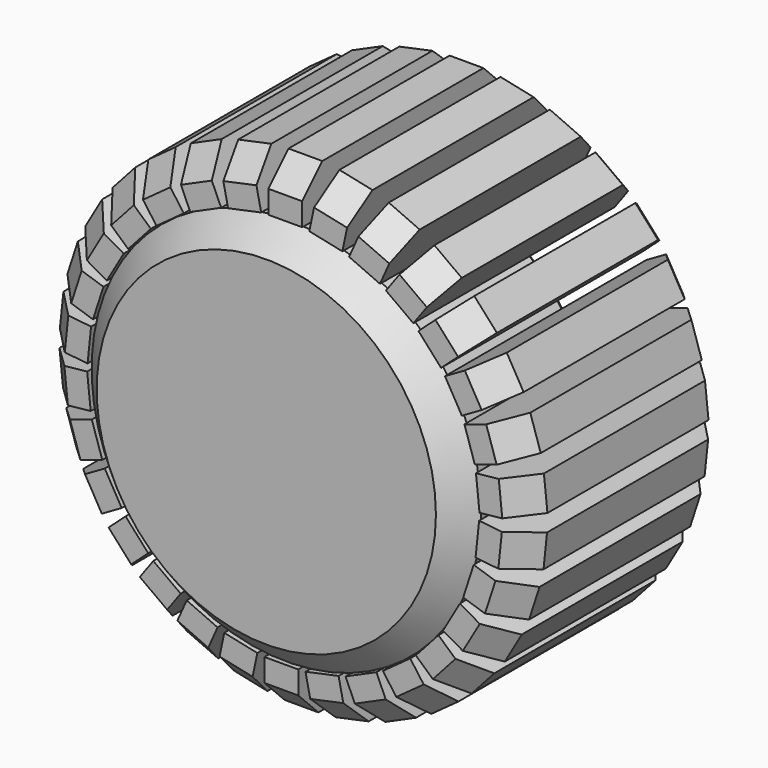
from build123d import *

# Parameters (mm, degrees)
F0_R        = 39.3229156589
F1_DEPTH    = 38.9816109091
F9_SIZE     = 5.08
F10_R       = 10.1055622672
F2_DEPTH    = 40.3628982604
F3_DEPTH    = 9.281327948
F4_SIZE     = 5.08
F6_W        = 6.826066412
F6_H        = 9.7030997276
F11_DEPTH   = 50.8
F7_COUNT    = 30
F12_SIZE    = 5.08
F12_2_SIZE  = 5.08
F12_3_SIZE  = 5.08
F12_4_SIZE  = 5.08
F12_5_SIZE  = 5.08
F12_6_SIZE  = 5.08
F12_7_SIZE  = 5.08
F12_8_SIZE  = 5.08
F12_9_SIZE  = 5.08
F12_10_SIZE = 5.08
F12_11_SIZE = 5.08
F12_12_SIZE = 5.08
F12_13_SIZE = 5.08
F12_14_SIZE = 5.08
F12_15_SIZE = 5.08
F12_16_SIZE = 5.08
F12_17_SIZE = 5.08
F12_18_SIZE = 5.08
F12_19_SIZE = 5.08
F12_20_SIZE = 5.08
F12_21_SIZE = 5.08
F12_22_SIZE = 5.08
F12_23_SIZE = 5.08
F12_24_SIZE = 5.08
F12_25_SIZE = 5.08
F12_26_SIZE = 5.08
F12_27_SIZE = 5.08
F12_28_SIZE = 5.08
F12_29_SIZE = 5.08
F12_30_SIZE = 5.08
F8_SIZE     = 5.08
F8_2_SIZE   = 5.08
F8_3_SIZE   = 5.08
F8_4_SIZE   = 5.08
F8_5_SIZE   = 5.08
F8_6_SIZE   = 5.08
F8_7_SIZE   = 5.08
F8_8_SIZE   = 5.08
F8_9_SIZE   = 5.08
F8_10_SIZE  = 5.08
F8_11_SIZE  = 5.08
F8_12_SIZE  = 5.08
F8_13_SIZE  = 5.08
F8_14_SIZE  = 5.08
F8_15_SIZE  = 5.08
F8_16_SIZE  = 5.08
F8_17_SIZE  = 5.08
F8_18_SIZE  = 5.08
F8_19_SIZE  = 5.08
F8_20_SIZE  = 5.08
F8_21_SIZE  = 5.08
F8_22_SIZE  = 5.08
F8_23_SIZE  = 5.08
F8_24_SIZE  = 5.08
F8_25_SIZE  = 5.08
F8_26_SIZE  = 5.08
F8_27_SIZE  = 5.08
F8_28_SIZE  = 5.08
F8_29_SIZE  = 5.08
F8_30_SIZE  = 5.08


with BuildPart() as f1:
    # F0 (on Front) → F1 (new body)
    with BuildSketch(Plane.XZ):
        Circle(F0_R)
    extrude(amount=F1_DEPTH)

    # F9
    f9_edges = [f1.edges().sort_by_distance(p)[0] for p in [
        (39.322916, -19.490805, 0),
        (-39.322916, 0, 0),
        (-39.322916, -38.981611, 0),
    ]]
    chamfer(f9_edges, length=F9_SIZE)

    # F10 (on face) → F2 (join)
    with BuildSketch(Plane.XZ.offset(38.9816109091)):
        with Locations((-0.4326030612, -0.1139193773)):
            Circle(F10_R)
    extrude(amount=-F2_DEPTH)

    # F3 (cut): a face of the model
    f3_faces = [f1.faces().sort_by_distance(p)[0] for p in [
        (-33.2743797441, 0, 0),
    ]]
    extrude(f3_faces, amount=-F3_DEPTH, mode=Mode.SUBTRACT)

    # F4
    f4_edges = [f1.edges().sort_by_distance(p)[0] for p in [
        (-10.538165, 1.381287, -0.113919),
    ]]
    chamfer(f4_edges, length=F4_SIZE)


with BuildPart() as f11:
    # F6 (on offset) → F11 (new body)
    with BuildSketch(Plane(origin=(0, 16.118672052, 0), x_dir=(-1, 0, 0), z_dir=(0, 1, 0))):
        with Locations((-0.3930665553, 44.2664772272)):
            Rectangle(F6_W, F6_H)
    extrude(amount=-F11_DEPTH)


with BuildPart() as f7_1:
    # F7: instance of F11
    add(f11.part.rotate(Axis((0, 0, 0), (0, 1, 0)), 1 * 360 / F7_COUNT))

    # F12#3
    f12_3_edges = [f7_1.edges().sort_by_distance(p)[0] for p in [
        (10.596689, -34.681328, 47.962957),
    ]]
    chamfer(f12_3_edges, length=F12_3_SIZE)

    # F8#5
    f8_5_edges = [f7_1.edges().sort_by_distance(p)[0] for p in [
        (10.596689, 16.118672, 47.962957),
    ]]
    chamfer(f8_5_edges, length=F8_5_SIZE)


with BuildPart() as f7_2:
    # F7: instance of F11
    add(f11.part.rotate(Axis((0, 0, 0), (0, 1, 0)), 2 * 360 / F7_COUNT))

    # F12#4
    f12_4_edges = [f7_2.edges().sort_by_distance(p)[0] for p in [
        (20.337186, -34.681328, 44.711676),
    ]]
    chamfer(f12_4_edges, length=F12_4_SIZE)

    # F8#6
    f8_6_edges = [f7_2.edges().sort_by_distance(p)[0] for p in [
        (20.337186, 16.118672, 44.711676),
    ]]
    chamfer(f8_6_edges, length=F8_6_SIZE)


with BuildPart() as f7_3:
    # F7: instance of F11
    add(f11.part.rotate(Axis((0, 0, 0), (0, 1, 0)), 3 * 360 / F7_COUNT))

    # F12#5
    f12_5_edges = [f7_3.edges().sort_by_distance(p)[0] for p in [
        (29.188849, -34.681328, 39.50628),
    ]]
    chamfer(f12_5_edges, length=F12_5_SIZE)

    # F8#7
    f8_7_edges = [f7_3.edges().sort_by_distance(p)[0] for p in [
        (29.188849, 16.118672, 39.50628),
    ]]
    chamfer(f8_7_edges, length=F8_7_SIZE)


with BuildPart() as f7_4:
    # F7: instance of F11
    add(f11.part.rotate(Axis((0, 0, 0), (0, 1, 0)), 4 * 360 / F7_COUNT))

    # F12#6
    f12_6_edges = [f7_4.edges().sort_by_distance(p)[0] for p in [
        (36.764821, -34.681328, 32.57427),
    ]]
    chamfer(f12_6_edges, length=F12_6_SIZE)

    # F8#8
    f8_8_edges = [f7_4.edges().sort_by_distance(p)[0] for p in [
        (36.764821, 16.118672, 32.57427),
    ]]
    chamfer(f8_8_edges, length=F8_8_SIZE)


with BuildPart() as f7_5:
    # F7: instance of F11
    add(f11.part.rotate(Axis((0, 0, 0), (0, 1, 0)), 5 * 360 / F7_COUNT))

    # F12#7
    f12_7_edges = [f7_5.edges().sort_by_distance(p)[0] for p in [
        (42.733993, -34.681328, 24.218608),
    ]]
    chamfer(f12_7_edges, length=F12_7_SIZE)

    # F8#9
    f8_9_edges = [f7_5.edges().sort_by_distance(p)[0] for p in [
        (42.733993, 16.118672, 24.218608),
    ]]
    chamfer(f8_9_edges, length=F8_9_SIZE)


with BuildPart() as f7_6:
    # F7: instance of F11
    add(f11.part.rotate(Axis((0, 0, 0), (0, 1, 0)), 6 * 360 / F7_COUNT))

    # F12#8
    f12_8_edges = [f7_6.edges().sort_by_distance(p)[0] for p in [
        (46.835484, -34.681328, 14.804477),
    ]]
    chamfer(f12_8_edges, length=F12_8_SIZE)

    # F8#10
    f8_10_edges = [f7_6.edges().sort_by_distance(p)[0] for p in [
        (46.835484, 16.118672, 14.804477),
    ]]
    chamfer(f8_10_edges, length=F8_10_SIZE)


with BuildPart() as f7_7:
    # F7: instance of F11
    add(f11.part.rotate(Axis((0, 0, 0), (0, 1, 0)), 7 * 360 / F7_COUNT))

    # F12#9
    f12_9_edges = [f7_7.edges().sort_by_distance(p)[0] for p in [
        (48.89004, -34.681328, 4.743319),
    ]]
    chamfer(f12_9_edges, length=F12_9_SIZE)

    # F8#11
    f8_11_edges = [f7_7.edges().sort_by_distance(p)[0] for p in [
        (48.89004, 16.118672, 4.743319),
    ]]
    chamfer(f8_11_edges, length=F8_11_SIZE)


with BuildPart() as f7_8:
    # F7: instance of F11
    add(f11.part.rotate(Axis((0, 0, 0), (0, 1, 0)), 8 * 360 / F7_COUNT))

    # F12#10
    f12_10_edges = [f7_8.edges().sort_by_distance(p)[0] for p in [
        (48.807867, -34.681328, -5.525145),
    ]]
    chamfer(f12_10_edges, length=F12_10_SIZE)

    # F8#12
    f8_12_edges = [f7_8.edges().sort_by_distance(p)[0] for p in [
        (48.807867, 16.118672, -5.525145),
    ]]
    chamfer(f8_12_edges, length=F8_12_SIZE)


with BuildPart() as f7_9:
    # F7: instance of F11
    add(f11.part.rotate(Axis((0, 0, 0), (0, 1, 0)), 9 * 360 / F7_COUNT))

    # F12#11
    f12_11_edges = [f7_9.edges().sort_by_distance(p)[0] for p in [
        (46.592555, -34.681328, -15.552134),
    ]]
    chamfer(f12_11_edges, length=F12_11_SIZE)

    # F8#13
    f8_13_edges = [f7_9.edges().sort_by_distance(p)[0] for p in [
        (46.592555, 16.118672, -15.552134),
    ]]
    chamfer(f8_13_edges, length=F8_13_SIZE)


with BuildPart() as f7_10:
    # F7: instance of F11
    add(f11.part.rotate(Axis((0, 0, 0), (0, 1, 0)), 10 * 360 / F7_COUNT))

    # F12#12
    f12_12_edges = [f7_10.edges().sort_by_distance(p)[0] for p in [
        (42.340926, -34.681328, -24.899419),
    ]]
    chamfer(f12_12_edges, length=F12_12_SIZE)

    # F8#14
    f8_14_edges = [f7_10.edges().sort_by_distance(p)[0] for p in [
        (42.340926, 16.118672, -24.899419),
    ]]
    chamfer(f8_14_edges, length=F8_14_SIZE)


with BuildPart() as f7_11:
    # F7: instance of F11
    add(f11.part.rotate(Axis((0, 0, 0), (0, 1, 0)), 11 * 360 / F7_COUNT))

    # F12#13
    f12_13_edges = [f7_11.edges().sort_by_distance(p)[0] for p in [
        (36.238795, -34.681328, -33.158481),
    ]]
    chamfer(f12_13_edges, length=F12_13_SIZE)

    # F8#15
    f8_15_edges = [f7_11.edges().sort_by_distance(p)[0] for p in [
        (36.238795, 16.118672, -33.158481),
    ]]
    chamfer(f8_15_edges, length=F8_15_SIZE)


with BuildPart() as f7_12:
    # F7: instance of F11
    add(f11.part.rotate(Axis((0, 0, 0), (0, 1, 0)), 12 * 360 / F7_COUNT))

    # F12#14
    f12_14_edges = [f7_12.edges().sort_by_distance(p)[0] for p in [
        (28.552854, -34.681328, -39.968357),
    ]]
    chamfer(f12_14_edges, length=F12_14_SIZE)

    # F8#16
    f8_16_edges = [f7_12.edges().sort_by_distance(p)[0] for p in [
        (28.552854, 16.118672, -39.968357),
    ]]
    chamfer(f8_16_edges, length=F8_16_SIZE)


with BuildPart() as f7_13:
    # F7: instance of F11
    add(f11.part.rotate(Axis((0, 0, 0), (0, 1, 0)), 13 * 360 / F7_COUNT))

    # F12#15
    f12_15_edges = [f7_13.edges().sort_by_distance(p)[0] for p in [
        (19.619017, -34.681328, -45.031425),
    ]]
    chamfer(f12_15_edges, length=F12_15_SIZE)

    # F8#17
    f8_17_edges = [f7_13.edges().sort_by_distance(p)[0] for p in [
        (19.619017, 16.118672, -45.031425),
    ]]
    chamfer(f8_17_edges, length=F8_17_SIZE)


with BuildPart() as f7_14:
    # F7: instance of F11
    add(f11.part.rotate(Axis((0, 0, 0), (0, 1, 0)), 14 * 360 / F7_COUNT))

    # F12#16
    f12_16_edges = [f7_14.edges().sort_by_distance(p)[0] for p in [
        (9.827735, -34.681328, -48.126403),
    ]]
    chamfer(f12_16_edges, length=F12_16_SIZE)

    # F8#18
    f8_18_edges = [f7_14.edges().sort_by_distance(p)[0] for p in [
        (9.827735, 16.118672, -48.126403),
    ]]
    chamfer(f8_18_edges, length=F8_18_SIZE)


with BuildPart() as f7_15:
    # F7: instance of F11
    add(f11.part.rotate(Axis((0, 0, 0), (0, 1, 0)), 15 * 360 / F7_COUNT))

    # F12#17
    f12_17_edges = [f7_15.edges().sort_by_distance(p)[0] for p in [
        (-0.393067, -34.681328, -49.118027),
    ]]
    chamfer(f12_17_edges, length=F12_17_SIZE)

    # F8#19
    f8_19_edges = [f7_15.edges().sort_by_distance(p)[0] for p in [
        (-0.393067, 16.118672, -49.118027),
    ]]
    chamfer(f8_19_edges, length=F8_19_SIZE)


with BuildPart() as f7_16:
    # F7: instance of F11
    add(f11.part.rotate(Axis((0, 0, 0), (0, 1, 0)), 16 * 360 / F7_COUNT))

    # F12#18
    f12_18_edges = [f7_16.edges().sort_by_distance(p)[0] for p in [
        (-10.596689, -34.681328, -47.962957),
    ]]
    chamfer(f12_18_edges, length=F12_18_SIZE)

    # F8#20
    f8_20_edges = [f7_16.edges().sort_by_distance(p)[0] for p in [
        (-10.596689, 16.118672, -47.962957),
    ]]
    chamfer(f8_20_edges, length=F8_20_SIZE)


with BuildPart() as f7_17:
    # F7: instance of F11
    add(f11.part.rotate(Axis((0, 0, 0), (0, 1, 0)), 17 * 360 / F7_COUNT))

    # F12#19
    f12_19_edges = [f7_17.edges().sort_by_distance(p)[0] for p in [
        (-20.337186, -34.681328, -44.711676),
    ]]
    chamfer(f12_19_edges, length=F12_19_SIZE)

    # F8#21
    f8_21_edges = [f7_17.edges().sort_by_distance(p)[0] for p in [
        (-20.337186, 16.118672, -44.711676),
    ]]
    chamfer(f8_21_edges, length=F8_21_SIZE)


with BuildPart() as f7_18:
    # F7: instance of F11
    add(f11.part.rotate(Axis((0, 0, 0), (0, 1, 0)), 18 * 360 / F7_COUNT))

    # F12#20
    f12_20_edges = [f7_18.edges().sort_by_distance(p)[0] for p in [
        (-29.188849, -34.681328, -39.50628),
    ]]
    chamfer(f12_20_edges, length=F12_20_SIZE)

    # F8#22
    f8_22_edges = [f7_18.edges().sort_by_distance(p)[0] for p in [
        (-29.188849, 16.118672, -39.50628),
    ]]
    chamfer(f8_22_edges, length=F8_22_SIZE)


with BuildPart() as f7_19:
    # F7: instance of F11
    add(f11.part.rotate(Axis((0, 0, 0), (0, 1, 0)), 19 * 360 / F7_COUNT))

    # F12#21
    f12_21_edges = [f7_19.edges().sort_by_distance(p)[0] for p in [
        (-36.764821, -34.681328, -32.57427),
    ]]
    chamfer(f12_21_edges, length=F12_21_SIZE)

    # F8#23
    f8_23_edges = [f7_19.edges().sort_by_distance(p)[0] for p in [
        (-36.764821, 16.118672, -32.57427),
    ]]
    chamfer(f8_23_edges, length=F8_23_SIZE)


with BuildPart() as f7_20:
    # F7: instance of F11
    add(f11.part.rotate(Axis((0, 0, 0), (0, 1, 0)), 20 * 360 / F7_COUNT))

    # F12#22
    f12_22_edges = [f7_20.edges().sort_by_distance(p)[0] for p in [
        (-42.733993, -34.681328, -24.218608),
    ]]
    chamfer(f12_22_edges, length=F12_22_SIZE)

    # F8#24
    f8_24_edges = [f7_20.edges().sort_by_distance(p)[0] for p in [
        (-42.733993, 16.118672, -24.218608),
    ]]
    chamfer(f8_24_edges, length=F8_24_SIZE)


with BuildPart() as f7_21:
    # F7: instance of F11
    add(f11.part.rotate(Axis((0, 0, 0), (0, 1, 0)), 21 * 360 / F7_COUNT))

    # F12#23
    f12_23_edges = [f7_21.edges().sort_by_distance(p)[0] for p in [
        (-46.835484, -34.681328, -14.804477),
    ]]
    chamfer(f12_23_edges, length=F12_23_SIZE)

    # F8#25
    f8_25_edges = [f7_21.edges().sort_by_distance(p)[0] for p in [
        (-46.835484, 16.118672, -14.804477),
    ]]
    chamfer(f8_25_edges, length=F8_25_SIZE)


with BuildPart() as f7_22:
    # F7: instance of F11
    add(f11.part.rotate(Axis((0, 0, 0), (0, 1, 0)), 22 * 360 / F7_COUNT))

    # F12#24
    f12_24_edges = [f7_22.edges().sort_by_distance(p)[0] for p in [
        (-48.89004, -34.681328, -4.743319),
    ]]
    chamfer(f12_24_edges, length=F12_24_SIZE)

    # F8#26
    f8_26_edges = [f7_22.edges().sort_by_distance(p)[0] for p in [
        (-48.89004, 16.118672, -4.743319),
    ]]
    chamfer(f8_26_edges, length=F8_26_SIZE)


with BuildPart() as f7_23:
    # F7: instance of F11
    add(f11.part.rotate(Axis((0, 0, 0), (0, 1, 0)), 23 * 360 / F7_COUNT))

    # F12#25
    f12_25_edges = [f7_23.edges().sort_by_distance(p)[0] for p in [
        (-48.807867, -34.681328, 5.525145),
    ]]
    chamfer(f12_25_edges, length=F12_25_SIZE)

    # F8#27
    f8_27_edges = [f7_23.edges().sort_by_distance(p)[0] for p in [
        (-48.807867, 16.118672, 5.525145),
    ]]
    chamfer(f8_27_edges, length=F8_27_SIZE)


with BuildPart() as f7_24:
    # F7: instance of F11
    add(f11.part.rotate(Axis((0, 0, 0), (0, 1, 0)), 24 * 360 / F7_COUNT))

    # F12#26
    f12_26_edges = [f7_24.edges().sort_by_distance(p)[0] for p in [
        (-46.592555, -34.681328, 15.552134),
    ]]
    chamfer(f12_26_edges, length=F12_26_SIZE)

    # F8#28
    f8_28_edges = [f7_24.edges().sort_by_distance(p)[0] for p in [
        (-46.592555, 16.118672, 15.552134),
    ]]
    chamfer(f8_28_edges, length=F8_28_SIZE)


with BuildPart() as f7_25:
    # F7: instance of F11
    add(f11.part.rotate(Axis((0, 0, 0), (0, 1, 0)), 25 * 360 / F7_COUNT))

    # F12#27
    f12_27_edges = [f7_25.edges().sort_by_distance(p)[0] for p in [
        (-42.340926, -34.681328, 24.899419),
    ]]
    chamfer(f12_27_edges, length=F12_27_SIZE)

    # F8#29
    f8_29_edges = [f7_25.edges().sort_by_distance(p)[0] for p in [
        (-42.340926, 16.118672, 24.899419),
    ]]
    chamfer(f8_29_edges, length=F8_29_SIZE)


with BuildPart() as f7_26:
    # F7: instance of F11
    add(f11.part.rotate(Axis((0, 0, 0), (0, 1, 0)), 26 * 360 / F7_COUNT))

    # F12#28
    f12_28_edges = [f7_26.edges().sort_by_distance(p)[0] for p in [
        (-36.238795, -34.681328, 33.158481),
    ]]
    chamfer(f12_28_edges, length=F12_28_SIZE)

    # F8#30
    f8_30_edges = [f7_26.edges().sort_by_distance(p)[0] for p in [
        (-36.238795, 16.118672, 33.158481),
    ]]
    chamfer(f8_30_edges, length=F8_30_SIZE)


with BuildPart() as f7_27:
    # F7: instance of F11
    add(f11.part.rotate(Axis((0, 0, 0), (0, 1, 0)), 27 * 360 / F7_COUNT))

    # F12#29
    f12_29_edges = [f7_27.edges().sort_by_distance(p)[0] for p in [
        (-28.552854, -34.681328, 39.968357),
    ]]
    chamfer(f12_29_edges, length=F12_29_SIZE)

    # F8#2
    f8_2_edges = [f7_27.edges().sort_by_distance(p)[0] for p in [
        (-28.552854, 16.118672, 39.968357),
    ]]
    chamfer(f8_2_edges, length=F8_2_SIZE)


with BuildPart() as f7_28:
    # F7: instance of F11
    add(f11.part.rotate(Axis((0, 0, 0), (0, 1, 0)), 28 * 360 / F7_COUNT))

    # F12#30
    f12_30_edges = [f7_28.edges().sort_by_distance(p)[0] for p in [
        (-19.619017, -34.681328, 45.031425),
    ]]
    chamfer(f12_30_edges, length=F12_30_SIZE)

    # F8
    f8_edges = [f7_28.edges().sort_by_distance(p)[0] for p in [
        (-19.619017, 16.118672, 45.031425),
    ]]
    chamfer(f8_edges, length=F8_SIZE)


with BuildPart() as f7_29:
    # F7: instance of F11
    add(f11.part.rotate(Axis((0, 0, 0), (0, 1, 0)), 29 * 360 / F7_COUNT))

    # F12
    f12_edges = [f7_29.edges().sort_by_distance(p)[0] for p in [
        (-9.827735, -34.681328, 48.126403),
    ]]
    chamfer(f12_edges, length=F12_SIZE)

    # F8#3
    f8_3_edges = [f7_29.edges().sort_by_distance(p)[0] for p in [
        (-9.827735, 16.118672, 48.126403),
    ]]
    chamfer(f8_3_edges, length=F8_3_SIZE)


with BuildPart() as f11_1:
    add(f11.part)

    # F12#2
    f12_2_edges = [f11_1.edges().sort_by_distance(p)[0] for p in [
        (0.393067, -34.681328, 49.118027),
    ]]
    chamfer(f12_2_edges, length=F12_2_SIZE)

    # F8#4
    f8_4_edges = [f11_1.edges().sort_by_distance(p)[0] for p in [
        (0.393067, 16.118672, 49.118027),
    ]]
    chamfer(f8_4_edges, length=F8_4_SIZE)


solid = Compound([f1.part, f7_1.part, f7_2.part, f7_3.part, f7_4.part, f7_5.part, f7_6.part, f7_7.part, f7_8.part, f7_9.part, f7_10.part, f7_11.part, f7_12.part, f7_13.part, f7_14.part, f7_15.part, f7_16.part, f7_17.part, f7_18.part, f7_19.part, f7_20.part, f7_21.part, f7_22.part, f7_23.part, f7_24.part, f7_25.part, f7_26.part, f7_27.part, f7_28.part, f7_29.part, f11_1.part])
